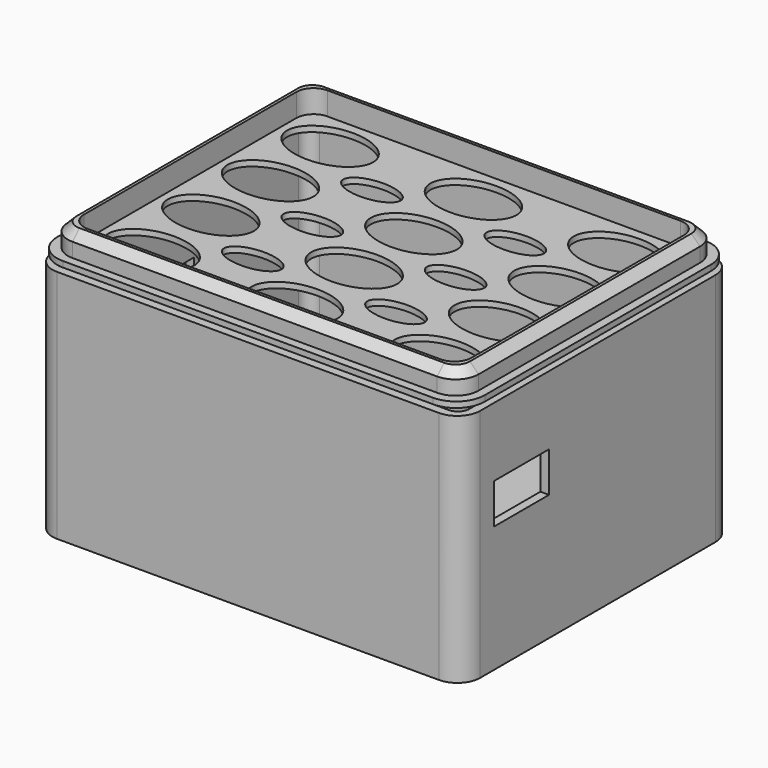
from build123d import *

# Parameters (mm, degrees)
SKETCH_W         = 74.6
SKETCH_H         = 59.3
SKETCH_R         = 1.25
PAD_DEPTH        = 2
SKETCH001_W      = 74.6
SKETCH001_H      = 59.3
SKETCH001_W_2    = 71.6
SKETCH001_H_2    = 56.3
PAD004_DEPTH     = 35
SKETCH004_W      = 12
SKETCH004_H      = 7
POCKET_DEPTH     = 5
SKETCH007_W      = 12
SKETCH007_H      = 12
SKETCH007_W_2    = 9
SKETCH007_W_3    = 17
SKETCH007_H_2    = 7
POCKET003_DEPTH  = 5
SKETCH008_W      = 74.6
SKETCH008_H      = 59.3
PAD005_DEPTH     = 4
HOLE_D           = 3
HOLE_DEPTH       = 25
HOLE_CBORE_D     = 6
HOLE_CBORE_DEPTH = 3
FILLET_R         = 2
FILLET011_R      = 4
SKETCH006_W      = 74.6
SKETCH006_H      = 59.3
PAD002_DEPTH     = 1
SKETCH002_W      = 71.6
SKETCH002_H      = 56.3
SKETCH002_W_2    = 67.6
SKETCH002_H_2    = 52.3
PAD003_DEPTH     = 4
POCKET002_DEPTH  = 5
FILLET008_R      = 5
FILLET009_R      = 4
FILLET010_R      = 3
CHAMFER_SIZE     = 1.5


with BuildPart() as body:
    # Sketch → Pad (new body)
    with BuildSketch(Plane.XY):
        with Locations((-37.3, 29.65)):
            Rectangle(SKETCH_W, SKETCH_H)
        with Locations((-57.35, 53.78)):
            Circle(SKETCH_R, mode=Mode.SUBTRACT)
        with Locations((-6.59, 38.54)):
            Circle(SKETCH_R, mode=Mode.SUBTRACT)
        with Locations((-6.59, 10.6)):
            Circle(SKETCH_R, mode=Mode.SUBTRACT)
        with Locations((-58.65, 5.48)):
            Circle(SKETCH_R, mode=Mode.SUBTRACT)
        with BuildLine():
            Line((-55.9, 3), (-3, 3))
            Line((-3, 3), (-3, 7.85))
            Line((-3, 7.85), (-6.59, 7.85))
            ThreePointArc((-6.59, 13.35), (-9.34, 10.6), (-6.59, 7.85))
            Line((-6.59, 13.35), (-3, 13.35))
            Line((-3, 35.79), (-3, 13.35))
            Line((-3, 35.79), (-6.59, 35.79))
            ThreePointArc((-6.59, 41.29), (-9.34, 38.54), (-6.59, 35.79))
            Line((-6.59, 41.29), (-3, 41.29))
            Line((-3, 41.29), (-3, 56.3))
            Line((-3, 56.3), (-54.6, 56.3))
            Line((-54.6, 53.78), (-54.6, 56.3))
            ThreePointArc((-60.1, 53.78), (-57.35, 51.03), (-54.6, 53.78))
            Line((-60.1, 56.3), (-60.1, 53.78))
            Line((-60.1, 56.3), (-71.6, 56.3))
            Line((-71.6, 56.3), (-71.6, 3))
            Line((-71.6, 3), (-61.4, 3))
            Line((-61.4, 5.48), (-61.4, 3))
            ThreePointArc((-55.9, 5.48), (-58.65, 8.23), (-61.4, 5.48))
            Line((-55.9, 3), (-55.9, 5.48))
        make_face(mode=Mode.SUBTRACT)
    extrude(amount=PAD_DEPTH)

    # Sketch001 (on Face30 of Pad) → Pad004 (join)
    with BuildSketch(Plane.XY.offset(2)):
        with Locations((-37.3, 29.65)):
            Rectangle(SKETCH001_W, SKETCH001_H)
        with Locations((-37.3, 29.65)):
            Rectangle(SKETCH001_W_2, SKETCH001_H_2, mode=Mode.SUBTRACT)
    extrude(amount=PAD004_DEPTH)

    # Sketch004 → Pocket (cut)
    with BuildSketch(Plane.YZ):
        with Locations((13, 21.5)):
            Rectangle(SKETCH004_W, SKETCH004_H)
    extrude(amount=-POCKET_DEPTH, mode=Mode.SUBTRACT)

    # Sketch007 (on Face8 of Pocket) → Pocket003 (cut)
    with BuildSketch(Plane(origin=(-74.6, 0, 0), x_dir=(0, -1, 0), z_dir=(-1, 0, 0))):
        with Locations((-40, 9)):
            Rectangle(SKETCH007_W, SKETCH007_H)
        with Locations((-10.5, 9)):
            Rectangle(SKETCH007_W_2, SKETCH007_H)
        with Locations((-24.5, 21.5)):
            Rectangle(SKETCH007_W_3, SKETCH007_H_2)
    extrude(amount=-POCKET003_DEPTH, mode=Mode.SUBTRACT)

    # Sketch008 (on Face4 of Pocket003) → Pad005 (join)
    with BuildSketch(Plane(origin=(0, 0, 0), x_dir=(1, 0, 0), z_dir=(0, 0, -1))):
        with Locations((-37.3, -29.65)):
            Rectangle(SKETCH008_W, SKETCH008_H)
    extrude(amount=PAD005_DEPTH)

    # Hole
    with Locations(Plane.XY):
        with Locations((-57.3, 45.548123), (-17.3, 45.548123), (-57.3, 13.751877), (-17.3, 13.751877)):
            CounterBoreHole(HOLE_D / 2, HOLE_CBORE_D / 2, HOLE_CBORE_DEPTH, depth=HOLE_DEPTH)

    # Fillet
    fillet_edges = [body.edges().sort_by_distance(p)[0] for p in [
        (-1.5, 1.5, 19.5),
        (-73.1, 1.5, 19.5),
        (-73.1, 57.8, 19.5),
        (-1.5, 57.8, 19.5),
    ]]
    fillet(fillet_edges, radius=FILLET_R)

    # Fillet011
    fillet011_edges = [body.edges().sort_by_distance(p)[0] for p in [
        (0, 59.3, 19.5),
        (-74.6, 59.3, 19.5),
        (-74.6, 0, 19.5),
        (0, 0, 19.5),
    ]]
    fillet(fillet011_edges, radius=FILLET011_R)


with BuildPart() as body001:
    # Sketch006 → Pad002 (new body)
    with BuildSketch(Plane.XY.offset(38)):
        with Locations((-37.3, 29.65)):
            Rectangle(SKETCH006_W, SKETCH006_H)
    extrude(amount=PAD002_DEPTH)

    # Sketch002 (on Face6 of Pad002) → Pad003 (join)
    with BuildSketch(Plane.XY.offset(39)):
        with Locations((-37.3, 29.65)):
            Rectangle(SKETCH002_W, SKETCH002_H)
        with Locations((-37.3, 29.65)):
            Rectangle(SKETCH002_W_2, SKETCH002_H_2, mode=Mode.SUBTRACT)
    extrude(amount=PAD003_DEPTH)

    # Sketch003 (on Face16 of Pad003) → Pocket002 (cut)
    with BuildSketch(Plane.XY.offset(39)):
        with BuildLine():
            add(Edge.make_bspline(
                [(-4.8, 49.15), (-4.8, 57.810254), (-16.05, 53.480127), (-27.3, 49.15), (-16.05, 44.819873), (-4.8, 40.489746), (-4.8, 49.15)],
                knots=[0, 0, 0, 2.094395, 2.094395, 4.18879, 4.18879, 6.283185, 6.283185, 6.283185], degree=2, weights=[1, 0.5, 1, 0.5, 1, 0.5, 1]))
        make_face()
        with BuildLine():
            add(Edge.make_bspline(
                [(-4.8, 36.15), (-4.8, 44.810254), (-16.05, 40.480127), (-27.3, 36.15), (-16.05, 31.819873), (-4.8, 27.489746), (-4.8, 36.15)],
                knots=[0, 0, 0, 2.094395, 2.094395, 4.18879, 4.18879, 6.283185, 6.283185, 6.283185], degree=2, weights=[1, 0.5, 1, 0.5, 1, 0.5, 1]))
        make_face()
        with BuildLine():
            add(Edge.make_bspline(
                [(-4.8, 23.15), (-4.8, 31.810254), (-16.05, 27.480127), (-27.3, 23.15), (-16.05, 18.819873), (-4.8, 14.489746), (-4.8, 23.15)],
                knots=[0, 0, 0, 2.094395, 2.094395, 4.18879, 4.18879, 6.283185, 6.283185, 6.283185], degree=2, weights=[1, 0.5, 1, 0.5, 1, 0.5, 1]))
        make_face()
        with BuildLine():
            add(Edge.make_bspline(
                [(-4.8, 10.15), (-4.8, 18.810254), (-16.05, 14.480127), (-27.3, 10.15), (-16.05, 5.819873), (-4.8, 1.489746), (-4.8, 10.15)],
                knots=[0, 0, 0, 2.094395, 2.094395, 4.18879, 4.18879, 6.283185, 6.283185, 6.283185], degree=2, weights=[1, 0.5, 1, 0.5, 1, 0.5, 1]))
        make_face()
        with BuildLine():
            add(Edge.make_bspline(
                [(-29.8, 42.65), (-29.8, 38.319873), (-22.3, 40.484936), (-14.8, 42.65), (-22.3, 44.815064), (-29.8, 46.980127), (-29.8, 42.65)],
                knots=[0, 0, 0, 2.094395, 2.094395, 4.18879, 4.18879, 6.283185, 6.283185, 6.283185], degree=2, weights=[1, 0.5, 1, 0.5, 1, 0.5, 1]))
        make_face()
        with BuildLine():
            add(Edge.make_bspline(
                [(-29.8, 29.65), (-29.8, 25.319873), (-22.3, 27.484936), (-14.8, 29.65), (-22.3, 31.815064), (-29.8, 33.980127), (-29.8, 29.65)],
                knots=[0, 0, 0, 2.094395, 2.094395, 4.18879, 4.18879, 6.283185, 6.283185, 6.283185], degree=2, weights=[1, 0.5, 1, 0.5, 1, 0.5, 1]))
        make_face()
        with BuildLine():
            add(Edge.make_bspline(
                [(-29.8, 16.65), (-29.8, 12.319873), (-22.3, 14.484936), (-14.8, 16.65), (-22.3, 18.815064), (-29.8, 20.980127), (-29.8, 16.65)],
                knots=[0, 0, 0, 2.094395, 2.094395, 4.18879, 4.18879, 6.283185, 6.283185, 6.283185], degree=2, weights=[1, 0.5, 1, 0.5, 1, 0.5, 1]))
        make_face()
        with BuildLine():
            add(Edge.make_bspline(
                [(-29.8, 49.15), (-29.8, 57.810254), (-41.05, 53.480127), (-52.3, 49.15), (-41.05, 44.819873), (-29.8, 40.489746), (-29.8, 49.15)],
                knots=[0, 0, 0, 2.094395, 2.094395, 4.18879, 4.18879, 6.283185, 6.283185, 6.283185], degree=2, weights=[1, 0.5, 1, 0.5, 1, 0.5, 1]))
        make_face()
        with BuildLine():
            add(Edge.make_bspline(
                [(-29.8, 36.15), (-29.8, 44.810254), (-41.05, 40.480127), (-52.3, 36.15), (-41.05, 31.819873), (-29.8, 27.489746), (-29.8, 36.15)],
                knots=[0, 0, 0, 2.094395, 2.094395, 4.18879, 4.18879, 6.283185, 6.283185, 6.283185], degree=2, weights=[1, 0.5, 1, 0.5, 1, 0.5, 1]))
        make_face()
        with BuildLine():
            add(Edge.make_bspline(
                [(-29.8, 23.15), (-29.8, 31.810254), (-41.05, 27.480127), (-52.3, 23.15), (-41.05, 18.819873), (-29.8, 14.489746), (-29.8, 23.15)],
                knots=[0, 0, 0, 2.094395, 2.094395, 4.18879, 4.18879, 6.283185, 6.283185, 6.283185], degree=2, weights=[1, 0.5, 1, 0.5, 1, 0.5, 1]))
        make_face()
        with BuildLine():
            add(Edge.make_bspline(
                [(-29.8, 10.15), (-29.8, 18.810254), (-41.05, 14.480127), (-52.3, 10.15), (-41.05, 5.819873), (-29.8, 1.489746), (-29.8, 10.15)],
                knots=[0, 0, 0, 2.094395, 2.094395, 4.18879, 4.18879, 6.283185, 6.283185, 6.283185], degree=2, weights=[1, 0.5, 1, 0.5, 1, 0.5, 1]))
        make_face()
        with BuildLine():
            add(Edge.make_bspline(
                [(-54.8, 42.65), (-54.8, 38.319873), (-47.3, 40.484936), (-39.8, 42.65), (-47.3, 44.815064), (-54.8, 46.980127), (-54.8, 42.65)],
                knots=[0, 0, 0, 2.094395, 2.094395, 4.18879, 4.18879, 6.283185, 6.283185, 6.283185], degree=2, weights=[1, 0.5, 1, 0.5, 1, 0.5, 1]))
        make_face()
        with BuildLine():
            add(Edge.make_bspline(
                [(-54.8, 29.65), (-54.8, 25.319873), (-47.3, 27.484936), (-39.8, 29.65), (-47.3, 31.815064), (-54.8, 33.980127), (-54.8, 29.65)],
                knots=[0, 0, 0, 2.094395, 2.094395, 4.18879, 4.18879, 6.283185, 6.283185, 6.283185], degree=2, weights=[1, 0.5, 1, 0.5, 1, 0.5, 1]))
        make_face()
        with BuildLine():
            add(Edge.make_bspline(
                [(-54.8, 16.65), (-54.8, 12.319873), (-47.3, 14.484936), (-39.8, 16.65), (-47.3, 18.815064), (-54.8, 20.980127), (-54.8, 16.65)],
                knots=[0, 0, 0, 2.094395, 2.094395, 4.18879, 4.18879, 6.283185, 6.283185, 6.283185], degree=2, weights=[1, 0.5, 1, 0.5, 1, 0.5, 1]))
        make_face()
        with BuildLine():
            add(Edge.make_bspline(
                [(-54.8, 49.15), (-54.8, 57.810254), (-66.05, 53.480127), (-77.3, 49.15), (-66.05, 44.819873), (-54.8, 40.489746), (-54.8, 49.15)],
                knots=[0, 0, 0, 2.094395, 2.094395, 4.18879, 4.18879, 6.283185, 6.283185, 6.283185], degree=2, weights=[1, 0.5, 1, 0.5, 1, 0.5, 1]))
        make_face()
        with BuildLine():
            add(Edge.make_bspline(
                [(-54.8, 36.15), (-54.8, 44.810254), (-66.05, 40.480127), (-77.3, 36.15), (-66.05, 31.819873), (-54.8, 27.489746), (-54.8, 36.15)],
                knots=[0, 0, 0, 2.094395, 2.094395, 4.18879, 4.18879, 6.283185, 6.283185, 6.283185], degree=2, weights=[1, 0.5, 1, 0.5, 1, 0.5, 1]))
        make_face()
        with BuildLine():
            add(Edge.make_bspline(
                [(-54.8, 23.15), (-54.8, 31.810254), (-66.05, 27.480127), (-77.3, 23.15), (-66.05, 18.819873), (-54.8, 14.489746), (-54.8, 23.15)],
                knots=[0, 0, 0, 2.094395, 2.094395, 4.18879, 4.18879, 6.283185, 6.283185, 6.283185], degree=2, weights=[1, 0.5, 1, 0.5, 1, 0.5, 1]))
        make_face()
        with BuildLine():
            add(Edge.make_bspline(
                [(-54.8, 10.15), (-54.8, 18.810254), (-66.05, 14.480127), (-77.3, 10.15), (-66.05, 5.819873), (-54.8, 1.489746), (-54.8, 10.15)],
                knots=[0, 0, 0, 2.094395, 2.094395, 4.18879, 4.18879, 6.283185, 6.283185, 6.283185], degree=2, weights=[1, 0.5, 1, 0.5, 1, 0.5, 1]))
        make_face()
    extrude(amount=-POCKET002_DEPTH, mode=Mode.SUBTRACT)

    # Fillet008
    fillet008_edges = [body001.edges().sort_by_distance(p)[0] for p in [
        (0, 59.3, 38.5),
        (0, 0, 38.5),
        (-74.6, 0, 38.5),
        (-74.6, 59.3, 38.5),
    ]]
    fillet(fillet008_edges, radius=FILLET008_R)

    # Fillet009
    fillet009_edges = [body001.edges().sort_by_distance(p)[0] for p in [
        (-73.1, 57.8, 41),
        (-1.5, 57.8, 41),
        (-1.5, 1.5, 41),
        (-73.1, 1.5, 41),
    ]]
    fillet(fillet009_edges, radius=FILLET009_R)

    # Fillet010
    fillet010_edges = [body001.edges().sort_by_distance(p)[0] for p in [
        (-3.5, 3.5, 41),
        (-3.5, 55.8, 41),
        (-71.1, 55.8, 41),
        (-71.1, 3.5, 41),
    ]]
    fillet(fillet010_edges, radius=FILLET010_R)

    # Chamfer
    chamfer_edges = [body001.edges().sort_by_distance(p)[0] for p in [
        (-37.3, 57.8, 43),
    ]]
    chamfer(chamfer_edges, length=CHAMFER_SIZE)


solid = Compound([body.part, body001.part])
